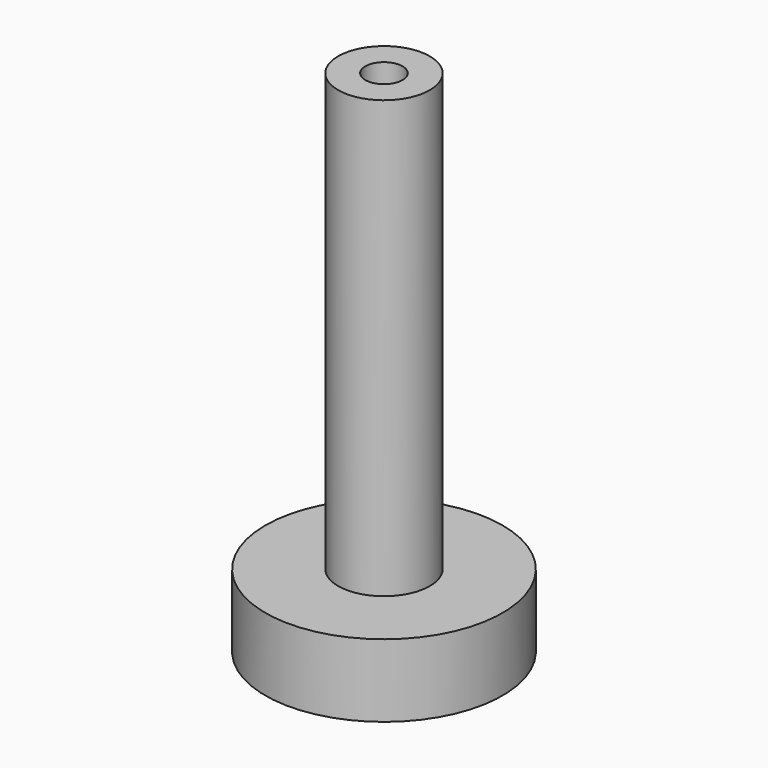
from build123d import *

# Parameters (mm, degrees)
F3_ANGLE = 180


with BuildPart() as f1:
    # F0 (on Front) → F1 (revolve)
    with BuildSketch(Plane.XZ):
        Polygon((12.75, 150), (15.75, 150), (40.75, 150), (40.75, 175), (12.75, 175), align=None)
        Polygon((6.4, 0), (12.75, 0), (12.75, 13.55), (6.4, 7.2), align=None)
        Polygon((12.75, 0), (15.75, 0), (15.75, 150), (12.75, 150), (12.75, 13.55), align=None)
    revolve(axis=Axis((0, 0, 75), (0, 0, 1)))


with BuildPart() as f1_1:
    # F3: moved
    add(f1.part.rotate(Axis((0, 25.257772, 0), (0, 1, 0)), F3_ANGLE))


solid = f1_1.part
